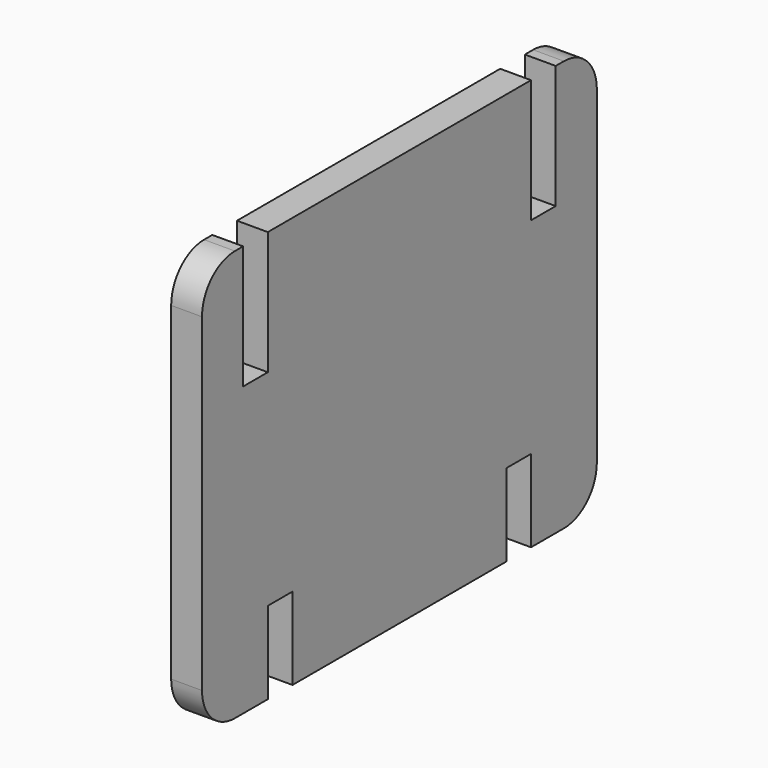
from build123d import *

# Parameters (mm, degrees)
F1_DEPTH = 4.7625


with BuildPart() as f1:
    # F0 (on Right) → F1 (new body)
    with BuildSketch(Plane.YZ):
        with BuildLine():
            ThreePointArc((0, 6.35), (1.859872, 1.859872), (6.35, 0))
            Line((6.35, 0), (12.7, 0))
            Line((12.7, 0), (12.7, 12.7))
            Line((12.7, 12.7), (17.4625, 12.7))
            Line((17.4625, 12.7), (17.4625, 0))
            Line((17.4625, 0), (58.7375, 0))
            Line((58.7375, 0), (58.7375, 12.7))
            Line((58.7375, 12.7), (63.5, 12.7))
            Line((63.5, 12.7), (63.5, 0))
            Line((63.5, 0), (69.85, 0))
            ThreePointArc((69.85, 0), (74.340128, 1.859872), (76.2, 6.35))
            Line((76.2, 6.35), (76.2, 57.15))
            ThreePointArc((76.2, 57.15), (74.340128, 61.640128), (69.85, 63.5))
            Line((69.85, 63.5), (68.2625, 63.5))
            Line((68.2625, 63.5), (68.2625, 44.45))
            Line((68.2625, 44.45), (63.5, 44.45))
            Line((63.5, 44.45), (63.5, 63.5))
            Line((63.5, 63.5), (12.7, 63.5))
            Line((12.7, 63.5), (12.7, 44.45))
            Line((12.7, 44.45), (7.9375, 44.45))
            Line((7.9375, 44.45), (7.9375, 63.5))
            Line((7.9375, 63.5), (6.35, 63.5))
            ThreePointArc((6.35, 63.5), (1.859872, 61.640128), (0, 57.15))
            Line((0, 57.15), (0, 6.35))
        make_face()
    extrude(amount=F1_DEPTH)


solid = f1.part
